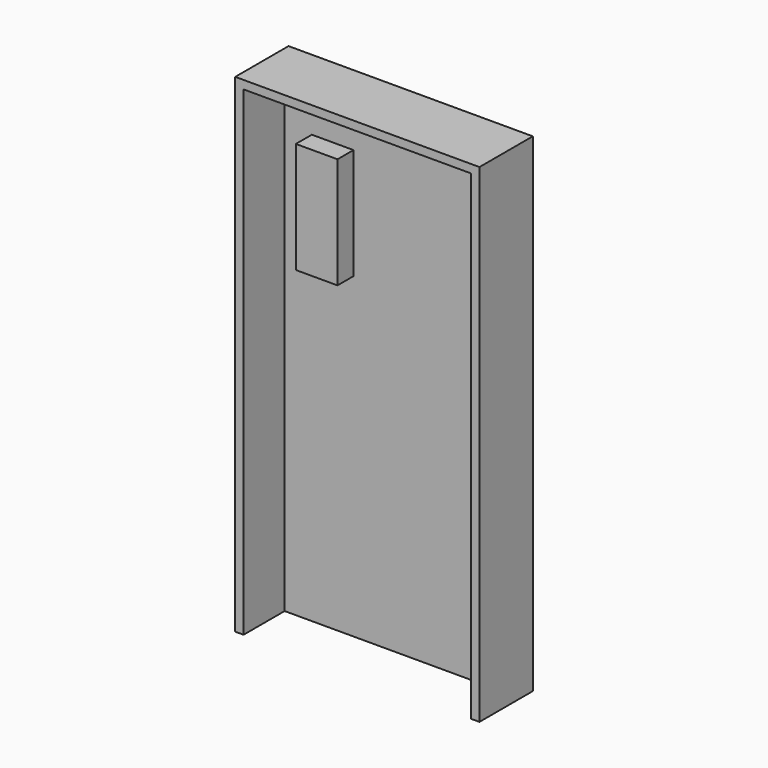
from build123d import *

# Parameters (mm, degrees)
F1_DEPTH = 152.4
F2_START = 25.4
F0_W     = 520.7
F0_H     = 1098.55
F2_DEPTH = 9.525
F3_W     = 95.25
F3_H     = 254
F4_DEPTH = 45.72


with BuildPart() as f1:
    # F0 (on Front) → F1 (new body)
    with BuildSketch(Plane.XZ):
        Polygon((259.2205437755, 656.2005733788), (-299.5794562245, 656.2005733788), (-299.5794562245, -461.3994266212), (-280.5294562245, -461.3994266212), (-280.5294562245, 637.1505733788), (240.1705437755, 637.1505733788), (240.1705437755, -461.3994266212), (259.2205437755, -461.3994266212), align=None)
    extrude(amount=F1_DEPTH)

    # F0 (on Front) → F2 (join)
    with BuildSketch(Plane.XZ.offset(F2_START)):
        with Locations((-20.1794562245, 87.8755733788)):
            Rectangle(F0_W, F0_H)
    extrude(amount=F2_DEPTH)

    # F3 (on face) → F4 (join)
    with BuildSketch(Plane.XZ.offset(34.925)):
        with Locations((-170.6612408161, 391.3649345023)):
            Rectangle(F3_W, F3_H)
    extrude(amount=F4_DEPTH)


solid = f1.part
